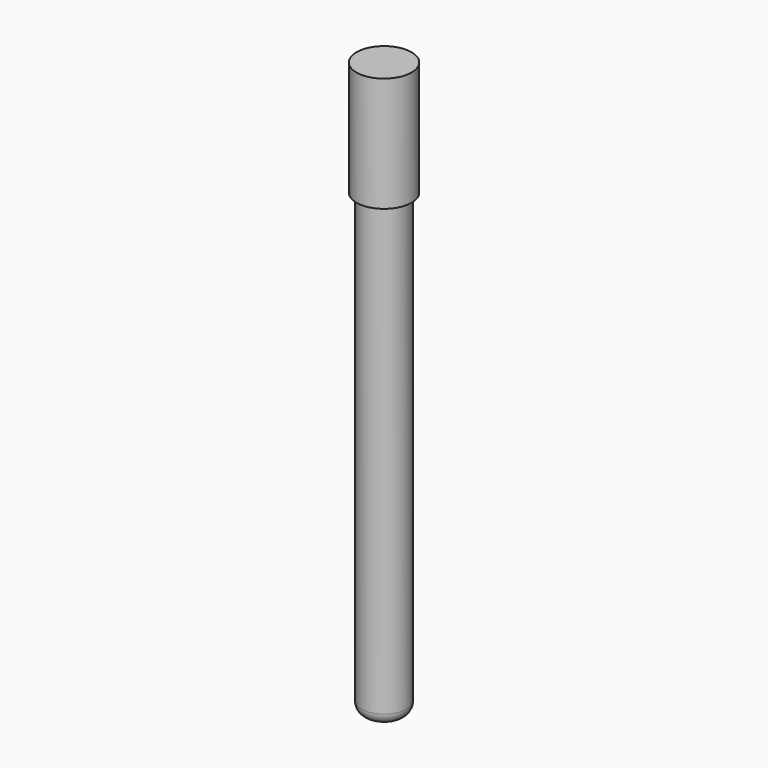
from build123d import *

# Parameters (mm, degrees)
F0_R     = 1.524
F1_DEPTH = 6.35
F2_R     = 1.2573
F3_DEPTH = 25.4
F4_R     = 0.635


with BuildPart() as f1:
    # F0 (on Top) → F1 (new body)
    with BuildSketch(Plane.XY):
        with Locations((-16.261026, 27.197644)):
            Circle(F0_R)
    extrude(amount=F1_DEPTH)

    # F2 (on face) → F3 (join)
    with BuildSketch(Plane(origin=(0, 0, 0), x_dir=(1, 0, 0), z_dir=(0, 0, -1))):
        with Locations((-16.261026, -27.197644)):
            Circle(F2_R)
    extrude(amount=F3_DEPTH)

    # F4
    f4_edges = [f1.edges().sort_by_distance(p)[0] for p in [
        (-17.518326, 27.197644, -25.4),
    ]]
    fillet(f4_edges, radius=F4_R)


solid = f1.part
